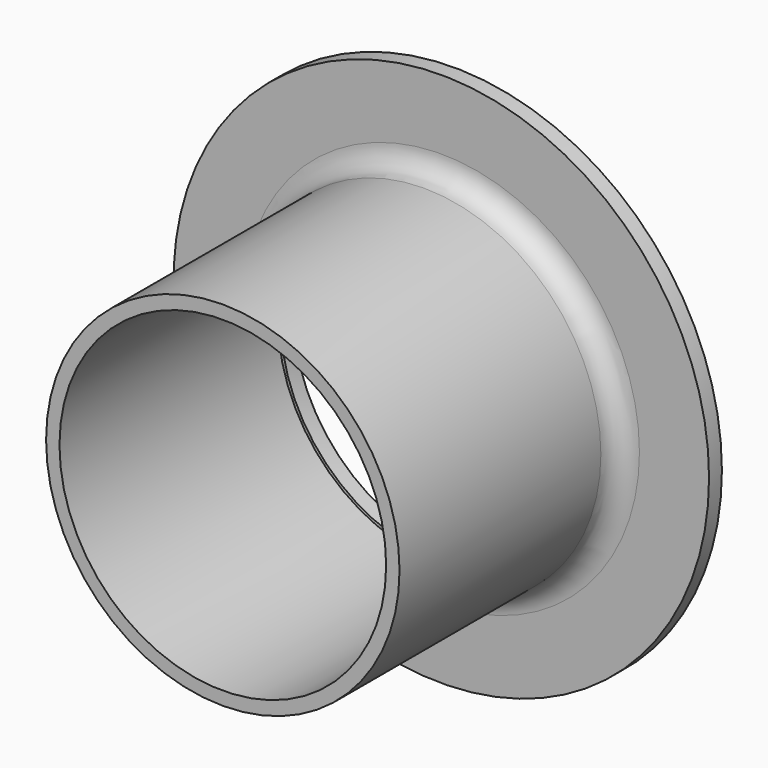
from build123d import *

# Parameters (mm, degrees)
F0_R     = 25
F0_R_2   = 15
F1_DEPTH = 1.5
F2_R     = 16.5
F2_R_2   = 15.25
F3_DEPTH = 27
F4_R     = 2


with BuildPart() as f1:
    # F0 (on Front) → F1 (new body)
    with BuildSketch(Plane.XZ):
        Circle(F0_R)
        Circle(F0_R_2, mode=Mode.SUBTRACT)
    extrude(amount=F1_DEPTH)

    # F2 (on Front) → F3 (join)
    with BuildSketch(Plane.XZ):
        Circle(F2_R)
        Circle(F2_R_2, mode=Mode.SUBTRACT)
    extrude(amount=F3_DEPTH)

    # F4
    f4_edges = [f1.edges().sort_by_distance(p)[0] for p in [
        (-16.5, -1.5, 0),
    ]]
    fillet(f4_edges, radius=F4_R)


solid = f1.part
